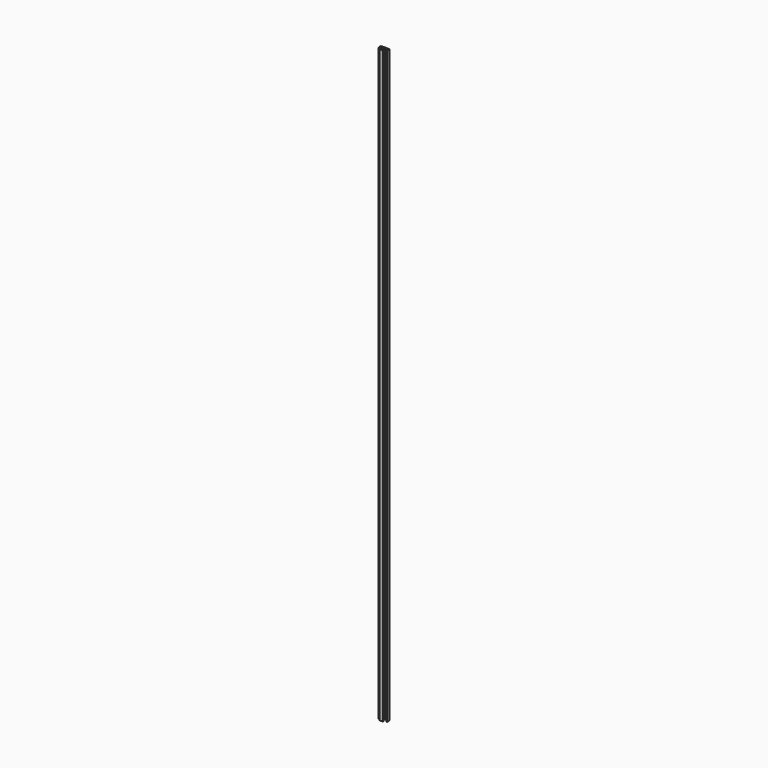
from build123d import *

# Parameters (mm, degrees)
F1_DEPTH = 2706
F2_R     = 2
F3_R     = 1


with BuildPart() as f1:
    # F0 (on Top) → F1 (new body)
    with BuildSketch(Plane.XY):
        Polygon((20, 10), (-20, 10), (-20, -5), (-17, -5), (-17, 7), (-2, 7), (-2, -9.5), (-8.5, -9.5), (-8.5, -12.5), (0, -12.5), (8.5, -12.5), (8.5, -9.5), (2, -9.5), (2, 7), (17, 7), (17, -5), (20, -5), align=None)
    extrude(amount=F1_DEPTH)

    # F2
    f2_edges = [f1.edges().sort_by_distance(p)[0] for p in [
        (-20, 10, 1353),
        (20, 10, 1353),
    ]]
    fillet(f2_edges, radius=F2_R)

    # F3
    f3_edges = [f1.edges().sort_by_distance(p)[0] for p in [
        (-17, -5, 1353),
        (-20, -5, 1353),
        (-17, 7, 1353),
        (2, 7, 1353),
        (17, -5, 1353),
        (20, -5, 1353),
        (8.5, -9.5, 1353),
        (8.5, -12.5, 1353),
        (-8.5, -12.5, 1353),
        (-8.5, -9.5, 1353),
        (-2, -9.5, 1353),
        (-2, 7, 1353),
        (17, 7, 1353),
        (2, -9.5, 1353),
    ]]
    fillet(f3_edges, radius=F3_R)


solid = f1.part
